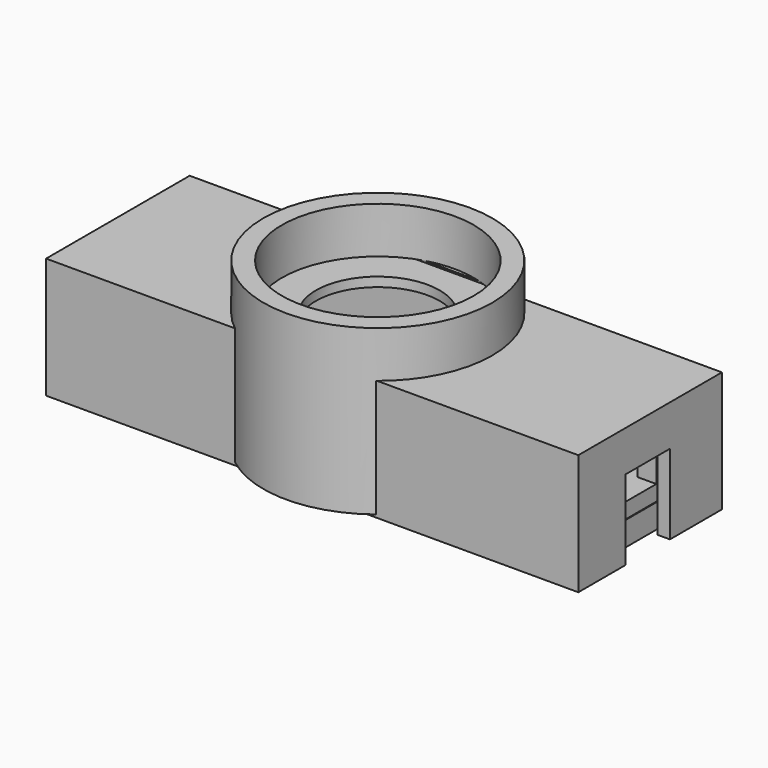
from build123d import *

# Parameters (mm, degrees)
CYLINDER_R        = 1.5
CYLINDER_DEPTH    = 10
BOX004_W          = 3
BOX004_H          = 5
BOX004_DEPTH      = 10
BOX003_W          = 3
BOX003_H          = 5
BOX003_DEPTH      = 10
BOX002_W          = 3
BOX002_H          = 5
BOX002_DEPTH      = 10
BOX001_W          = 3
BOX001_H          = 5
BOX001_DEPTH      = 10
CYLINDER001_R     = 1.5
CYLINDER001_DEPTH = 10
BOX_W             = 80
BOX_H             = 22
BOX_DEPTH         = 2.5
CYLINDER002_R     = 1.5
CYLINDER002_DEPTH = 10
CYLINDER003_R     = 1.5
CYLINDER003_DEPTH = 10
CYLINDER007_R     = 10
CYLINDER007_DEPTH = 24
BOX016_W          = 82.5
BOX016_H          = 26.5
BOX016_DEPTH      = 18
BOX017_W          = 8
BOX017_H          = 9
BOX017_DEPTH      = 13
BOX015_W          = 86
BOX015_H          = 29
BOX015_DEPTH      = 19.5
BOX018_W          = 86
BOX018_H          = 29.5
BOX018_DEPTH      = 19.5
CYLINDER008_R     = 10
CYLINDER008_DEPTH = 24
CYLINDER004_R     = 10
CYLINDER004_DEPTH = 24
BOX013_W          = 82.5
BOX013_H          = 26.5
BOX013_DEPTH      = 18
BOX014_W          = 8
BOX014_H          = 9
BOX014_DEPTH      = 13
BOX012_W          = 86
BOX012_H          = 29
BOX012_DEPTH      = 19.5
CYLINDER005_R     = 15.5
CYLINDER005_DEPTH = 7.5
CYLINDER006_R     = 18.5
CYLINDER006_DEPTH = 26.5
CYLINDER009_R     = 0.8
CYLINDER009_DEPTH = 10
CYLINDER010_R     = 0.8
CYLINDER010_DEPTH = 10
BOX010_W          = 3
BOX010_H          = 12
BOX010_DEPTH      = 2
BOX008_W          = 3
BOX008_H          = 5
BOX008_DEPTH      = 15.5
BOX007_W          = 3
BOX007_H          = 5
BOX007_DEPTH      = 15.5
BOX006_W          = 3
BOX006_H          = 5
BOX006_DEPTH      = 15.5
BOX005_W          = 3
BOX005_H          = 5
BOX005_DEPTH      = 15.5
BOX011_W          = 3
BOX011_H          = 12
BOX011_DEPTH      = 2
BOX009_W          = 80
BOX009_H          = 24
BOX009_DEPTH      = 2.5


with BuildPart() as cylinder:
    # Cylinder → Cylinder (new body)
    with BuildSketch(Plane(origin=(7.5, 21.5, 0), x_dir=(1, 0, 0), z_dir=(0, 0, 1))):
        Circle(CYLINDER_R)
    extrude(amount=CYLINDER_DEPTH)


with BuildPart() as cube003:
    # Box004 → Box004 (new body)
    with BuildSketch(Plane(origin=(0, 17, 0), x_dir=(1, 0, 0), z_dir=(0, 0, 1))):
        with Locations((1.5, 2.5)):
            Rectangle(BOX004_W, BOX004_H)
    extrude(amount=BOX004_DEPTH)


with BuildPart() as cube002:
    # Box003 → Box003 (new body)
    with BuildSketch(Plane(origin=(77, 17, 0), x_dir=(1, 0, 0), z_dir=(0, 0, 1))):
        with Locations((1.5, 2.5)):
            Rectangle(BOX003_W, BOX003_H)
    extrude(amount=BOX003_DEPTH)


with BuildPart() as cube001:
    # Box002 → Box002 (new body)
    with BuildSketch(Plane(origin=(77, 0, 0), x_dir=(1, 0, 0), z_dir=(0, 0, 1))):
        with Locations((1.5, 2.5)):
            Rectangle(BOX002_W, BOX002_H)
    extrude(amount=BOX002_DEPTH)


with BuildPart() as cube:
    # Box001 → Box001 (new body)
    with BuildSketch(Plane.XY):
        with Locations((1.5, 2.5)):
            Rectangle(BOX001_W, BOX001_H)
    extrude(amount=BOX001_DEPTH)


with BuildPart() as fusion:
    # Cylinder001 → Cylinder001 (new body)
    with BuildSketch(Plane(origin=(72.2, 21.5, 0), x_dir=(1, 0, 0), z_dir=(0, 0, 1))):
        Circle(CYLINDER001_R)
    extrude(amount=CYLINDER001_DEPTH)

    # Fusion: union Cylinder, Cube003, Cube002, Cube001, Cube
    add(cylinder.part)
    add(cube003.part)
    add(cube002.part)
    add(cube001.part)
    add(cube.part)


with BuildPart() as obj1:
    # Box → Box (new body)
    with BuildSketch(Plane.XY):
        with Locations((40, 11)):
            Rectangle(BOX_W, BOX_H)
    extrude(amount=BOX_DEPTH)

    # Cut: cut Fusion
    add(fusion.part, mode=Mode.SUBTRACT)


with BuildPart() as cylinder002:
    # Cylinder002 → Cylinder002 (new body)
    with BuildSketch(Plane(origin=(72.2, 21.5, 0), x_dir=(1, 0, 0), z_dir=(0, 0, 1))):
        Circle(CYLINDER002_R)
    extrude(amount=CYLINDER002_DEPTH)


with BuildPart() as cylinder003:
    # Cylinder003 → Cylinder003 (new body)
    with BuildSketch(Plane(origin=(7.5, 21.5, 0), x_dir=(1, 0, 0), z_dir=(0, 0, 1))):
        Circle(CYLINDER003_R)
    extrude(amount=CYLINDER003_DEPTH)


with BuildPart() as cylinder007:
    # Cylinder007 → Cylinder007 (new body)
    with BuildSketch(Plane(origin=(39, 12, 9), x_dir=(1, 0, 0), z_dir=(0, 0, 1))):
        Circle(CYLINDER007_R)
    extrude(amount=CYLINDER007_DEPTH)


with BuildPart() as obj2:
    # Box016 → Box016 (new body)
    with BuildSketch(Plane(origin=(-1.5, -1.5, -4), x_dir=(1, 0, 0), z_dir=(0, 0, 1))):
        with Locations((41.25, 13.25)):
            Rectangle(BOX016_W, BOX016_H)
    extrude(amount=BOX016_DEPTH)


with BuildPart() as fusion003:
    # Box017 → Box017 (new body)
    with BuildSketch(Plane(origin=(77, 7, -4.1), x_dir=(1, 0, 0), z_dir=(0, 0, 1))):
        with Locations((4, 4.5)):
            Rectangle(BOX017_W, BOX017_H)
    extrude(amount=BOX017_DEPTH)

    # Fusion003: union Cylinder007, obj2
    add(cylinder007.part)
    add(obj2.part)


with BuildPart() as cut003:
    # Box015 → Box015 (new body)
    with BuildSketch(Plane(origin=(-3, -2.5, -4), x_dir=(1, 0, 0), z_dir=(0, 0, 1))):
        with Locations((43, 14.5)):
            Rectangle(BOX015_W, BOX015_H)
    extrude(amount=BOX015_DEPTH)

    # Cut003: cut Fusion003
    add(fusion003.part, mode=Mode.SUBTRACT)


with BuildPart() as obj3:
    # Box018 → Box018 (new body)
    with BuildSketch(Plane(origin=(-3, -2.6, -4), x_dir=(1, 0, 0), z_dir=(0, 0, 1))):
        with Locations((43, 14.75)):
            Rectangle(BOX018_W, BOX018_H)
    extrude(amount=BOX018_DEPTH)


with BuildPart() as fusion004:
    # Cylinder008 → Cylinder008 (new body)
    with BuildSketch(Plane(origin=(39, 12, 9), x_dir=(1, 0, 0), z_dir=(0, 0, 1))):
        Circle(CYLINDER008_R)
    extrude(amount=CYLINDER008_DEPTH)

    # Fusion004: union obj3
    add(obj3.part)


with BuildPart() as cylinder004:
    # Cylinder004 → Cylinder004 (new body)
    with BuildSketch(Plane(origin=(39, 12, 9), x_dir=(1, 0, 0), z_dir=(0, 0, 1))):
        Circle(CYLINDER004_R)
    extrude(amount=CYLINDER004_DEPTH)


with BuildPart() as obj4:
    # Box013 → Box013 (new body)
    with BuildSketch(Plane(origin=(-1.5, -1.5, -4), x_dir=(1, 0, 0), z_dir=(0, 0, 1))):
        with Locations((41.25, 13.25)):
            Rectangle(BOX013_W, BOX013_H)
    extrude(amount=BOX013_DEPTH)


with BuildPart() as fusion002:
    # Box014 → Box014 (new body)
    with BuildSketch(Plane(origin=(77, 7, -4.1), x_dir=(1, 0, 0), z_dir=(0, 0, 1))):
        with Locations((4, 4.5)):
            Rectangle(BOX014_W, BOX014_H)
    extrude(amount=BOX014_DEPTH)

    # Fusion002: union Cylinder004, obj4
    add(cylinder004.part)
    add(obj4.part)


with BuildPart() as cut001:
    # Box012 → Box012 (new body)
    with BuildSketch(Plane(origin=(-3, -2.5, -4), x_dir=(1, 0, 0), z_dir=(0, 0, 1))):
        with Locations((43, 14.5)):
            Rectangle(BOX012_W, BOX012_H)
    extrude(amount=BOX012_DEPTH)

    # Cut001: cut Fusion002
    add(fusion002.part, mode=Mode.SUBTRACT)


with BuildPart() as cylinder005:
    # Cylinder005 → Cylinder005 (new body)
    with BuildSketch(Plane(origin=(39, 12, 15.5), x_dir=(1, 0, 0), z_dir=(0, 0, 1))):
        Circle(CYLINDER005_R)
    extrude(amount=CYLINDER005_DEPTH)


with BuildPart() as cut005:
    # Cylinder006 → Cylinder006 (new body)
    with BuildSketch(Plane(origin=(39, 12, -3.5), x_dir=(1, 0, 0), z_dir=(0, 0, 1))):
        Circle(CYLINDER006_R)
    extrude(amount=CYLINDER006_DEPTH)

    # Cut002: cut Cylinder005
    add(cylinder005.part, mode=Mode.SUBTRACT)

    # Cut004: cut Cut001
    add(cut001.part, mode=Mode.SUBTRACT)

    # Cut005: cut Fusion004
    add(fusion004.part, mode=Mode.SUBTRACT)


with BuildPart() as cylinder009:
    # Cylinder009 → Cylinder009 (new body)
    with BuildSketch(Plane(origin=(72.2, 21.5, 0), x_dir=(1, 0, 0), z_dir=(0, 0, 1))):
        Circle(CYLINDER009_R)
    extrude(amount=CYLINDER009_DEPTH)


with BuildPart() as fusion006:
    # Cylinder010 → Cylinder010 (new body)
    with BuildSketch(Plane(origin=(7.5, 21.5, 0), x_dir=(1, 0, 0), z_dir=(0, 0, 1))):
        Circle(CYLINDER010_R)
    extrude(amount=CYLINDER010_DEPTH)

    # Fusion006: union Cylinder009
    add(cylinder009.part)


with BuildPart() as fusion006_1:
    # Fusion006 placement: moved
    add(fusion006.part.moved(Location((0, 0, -6))))


with BuildPart() as cube008:
    # Box010 → Box010 (new body)
    with BuildSketch(Plane(origin=(0, 5, -2.1), x_dir=(1, 0, 0), z_dir=(0, 0, 1))):
        with Locations((1.5, 6)):
            Rectangle(BOX010_W, BOX010_H)
    extrude(amount=BOX010_DEPTH)


with BuildPart() as cube007:
    # Box008 → Box008 (new body)
    with BuildSketch(Plane.XY.offset(-2)):
        with Locations((1.5, 2.5)):
            Rectangle(BOX008_W, BOX008_H)
    extrude(amount=BOX008_DEPTH)


with BuildPart() as cube006:
    # Box007 → Box007 (new body)
    with BuildSketch(Plane(origin=(77, 0, -2), x_dir=(1, 0, 0), z_dir=(0, 0, 1))):
        with Locations((1.5, 2.5)):
            Rectangle(BOX007_W, BOX007_H)
    extrude(amount=BOX007_DEPTH)


with BuildPart() as cube005:
    # Box006 → Box006 (new body)
    with BuildSketch(Plane(origin=(77, 17, -2), x_dir=(1, 0, 0), z_dir=(0, 0, 1))):
        with Locations((1.5, 2.5)):
            Rectangle(BOX006_W, BOX006_H)
    extrude(amount=BOX006_DEPTH)


with BuildPart() as cube004:
    # Box005 → Box005 (new body)
    with BuildSketch(Plane(origin=(0, 17, -2), x_dir=(1, 0, 0), z_dir=(0, 0, 1))):
        with Locations((1.5, 2.5)):
            Rectangle(BOX005_W, BOX005_H)
    extrude(amount=BOX005_DEPTH)


with BuildPart() as fusion001:
    # Box011 → Box011 (new body)
    with BuildSketch(Plane(origin=(77, 5, -2.1), x_dir=(1, 0, 0), z_dir=(0, 0, 1))):
        with Locations((1.5, 6)):
            Rectangle(BOX011_W, BOX011_H)
    extrude(amount=BOX011_DEPTH)

    # Fusion001: union Cube008, Cube007, Cube006, Cube005, Cube004
    add(cube008.part)
    add(cube007.part)
    add(cube006.part)
    add(cube005.part)
    add(cube004.part)


with BuildPart() as cut006:
    # Box009 → Box009 (new body)
    with BuildSketch(Plane.XY.offset(-4)):
        with Locations((40, 12)):
            Rectangle(BOX009_W, BOX009_H)
    extrude(amount=BOX009_DEPTH)

    # Fusion005: union Fusion001
    add(fusion001.part)

    # Cut006: cut Fusion006
    add(fusion006_1.part, mode=Mode.SUBTRACT)


solid = Compound([obj1.part, cylinder002.part, cylinder003.part, cut003.part, cut005.part, cut006.part])
